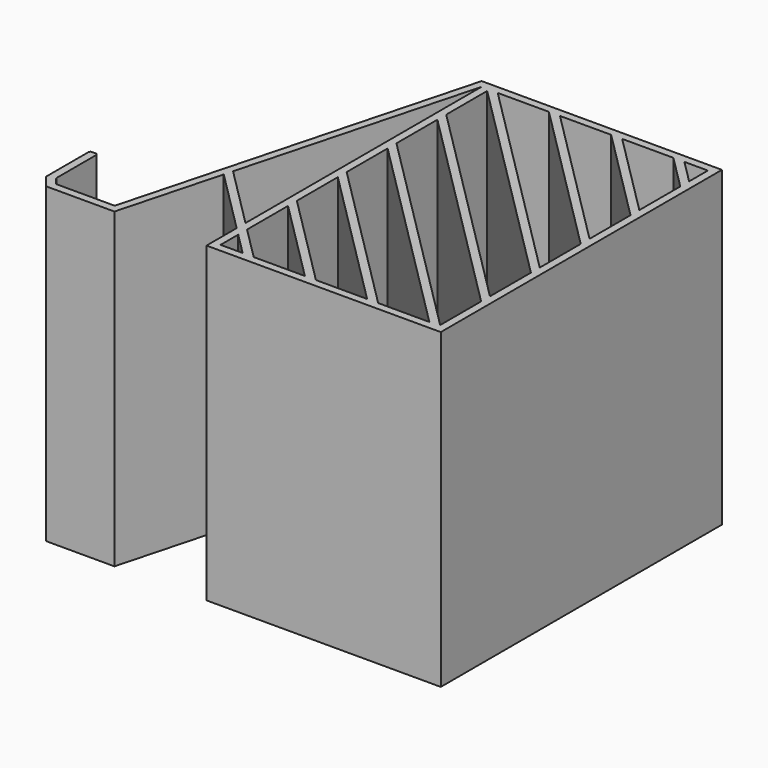
from build123d import *

# Parameters (mm, degrees)
F1_DEPTH = 80


with BuildPart() as f1:
    # F0 (on Top) → F1 (new body)
    with BuildSketch(Plane.XY):
        with BuildLine():
            ThreePointArc((0.5, 0), (0.146447, -0.146447), (0, -0.5))
            Line((0, -0.5), (0, -13.826524))
            ThreePointArc((0, -13.826524), (0.027624, -13.990416), (0.107442, -14.136199))
            Line((0.107442, -14.136199), (2.627769, -17.33108))
            Line((2.627769, -17.33108), (20.132091, -17.33108))
            Line((20.132091, -17.33108), (27.155765, 8.881629))
            Line((27.155765, 8.881629), (43.711619, -7.674226))
            Line((43.711619, -7.674226), (43.711619, -17.33108))
            Line((43.711619, -17.33108), (103.711619, -17.33108))
            Line((103.711619, -17.33108), (103.711619, 72.66892))
            Line((103.711619, 72.66892), (42.176966, 72.66892))
            Line((42.176966, 72.66892), (18.597437, -15.33108))
            Line((18.597437, -15.33108), (3.597437, -15.33108))
            Line((3.597437, -15.33108), (2.107442, -13.442295))
            ThreePointArc((2.107442, -13.442295), (2.027624, -13.296512), (2, -13.13262))
            Line((2, -13.13262), (2, -0.5))
            ThreePointArc((2, -0.5), (1.853553, -0.146447), (1.5, 0))
            Line((1.5, 0), (0.5, 0))
        make_face()
        Polygon((51.368474, -15.33108), (45.711619, -15.33108), (45.711619, -9.674226), align=None, mode=Mode.SUBTRACT)
        Polygon((45.711619, 6.264628), (67.307328, -15.33108), (54.196901, -15.33108), (45.711619, -6.845799), align=None, mode=Mode.SUBTRACT)
        Polygon((45.711619, 22.203483), (83.246182, -15.33108), (70.135755, -15.33108), (45.711619, 9.093055), align=None, mode=Mode.SUBTRACT)
        Polygon((86.07461, -15.33108), (45.711619, 25.03191), (45.711619, 38.142337), (99.185037, -15.33108), align=None, mode=Mode.SUBTRACT)
        Polygon((101.711619, -15.029236), (45.711619, 40.970764), (45.711619, 54.081191), (101.711619, -1.918809), align=None, mode=Mode.SUBTRACT)
        Polygon((27.753482, 11.112339), (43.711619, 70.66892), (43.711619, -4.845799), align=None, mode=Mode.SUBTRACT)
        Polygon((45.711619, 56.909618), (45.711619, 70.020046), (101.711619, 14.020046), (101.711619, 0.909618), align=None, mode=Mode.SUBTRACT)
        Polygon((101.711619, 16.848473), (47.891173, 70.66892), (61.0016, 70.66892), (101.711619, 29.9589), align=None, mode=Mode.SUBTRACT)
        Polygon((101.711619, 32.787327), (63.830027, 70.66892), (76.940454, 70.66892), (101.711619, 45.897754), align=None, mode=Mode.SUBTRACT)
        Polygon((101.711619, 48.726181), (79.768881, 70.66892), (92.879308, 70.66892), (101.711619, 61.836609), align=None, mode=Mode.SUBTRACT)
        Polygon((95.707736, 70.66892), (101.711619, 70.66892), (101.711619, 64.665036), align=None, mode=Mode.SUBTRACT)
    extrude(amount=F1_DEPTH)


solid = f1.part
